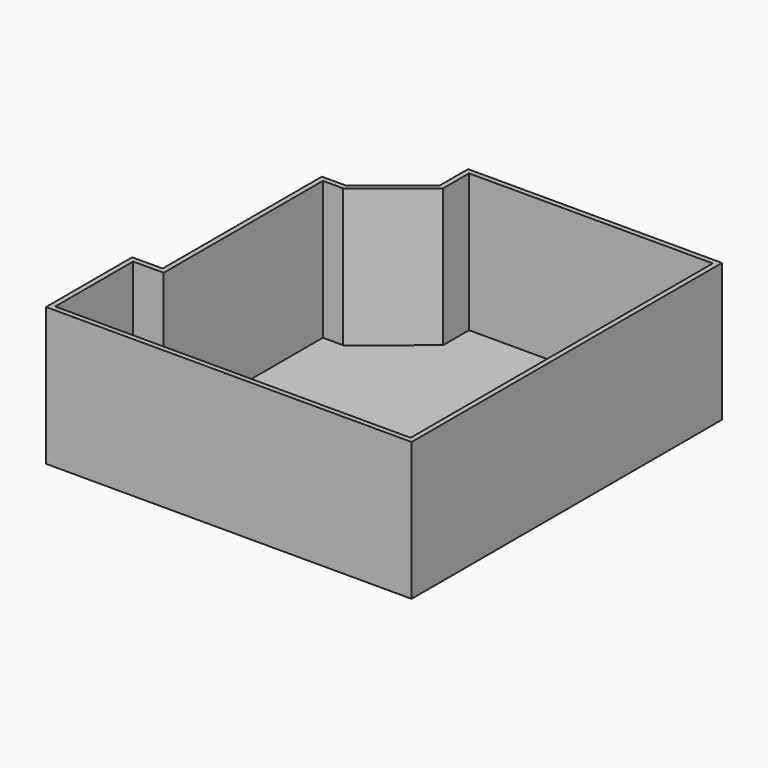
from build123d import *

# Parameters (mm, degrees)
F0_W     = 38.1
F0_H     = 121.92
F0_W_2   = 12.7
F0_H_2   = 177.8
F1_DEPTH = 3.175
F3_DEPTH = 172.72


with BuildPart() as f1:
    # F0 (on Top) → F1 (new body)
    with BuildSketch(Plane.XY):
        Polygon((-210.250471, -173.151603), (196.149529, -173.151603), (196.149529, 299.288397), (-108.650471, 299.288397), (-108.650471, 258.648397), (-184.850471, 197.367145), (-184.850471, 197.688397), (-210.250471, 197.688397), (-210.250471, 149.273349), (-197.550471, 149.273349), (-197.550471, -28.526651), (-210.250471, -28.526651), (-210.250471, -51.231603), align=None)
        with Locations((-229.300471, -112.191603)):
            Rectangle(F0_W, F0_H)
        with Locations((-203.900471, 60.373349)):
            Rectangle(F0_W_2, F0_H_2)
    extrude(amount=F1_DEPTH)


with BuildPart() as f3:
    # F2 (on face) → F3 (new body)
    with BuildSketch(Plane.XY.offset(3.175)):
        Polygon((202.499529, 305.638397), (-115.000471, 305.638397), (-115.000471, 261.690344), (-186.687622, 204.038397), (-216.600471, 204.038397), (-216.600471, -44.881603), (-254.700471, -44.881603), (-254.700471, -179.501603), (202.499529, -179.501603), align=None)
        Polygon((-210.250471, -51.231603), (-210.250471, -31.194258), (-210.250471, 172.288397), (-210.250471, 197.688397), (-184.850471, 197.688397), (-184.850471, 197.367145), (-108.650471, 258.648397), (-108.650471, 299.288397), (196.149529, 299.288397), (196.149529, -173.151603), (-248.350471, -173.151603), (-248.350471, -51.231603), align=None, mode=Mode.SUBTRACT)
    extrude(amount=F3_DEPTH)


solid = Compound([f1.part, f3.part])
